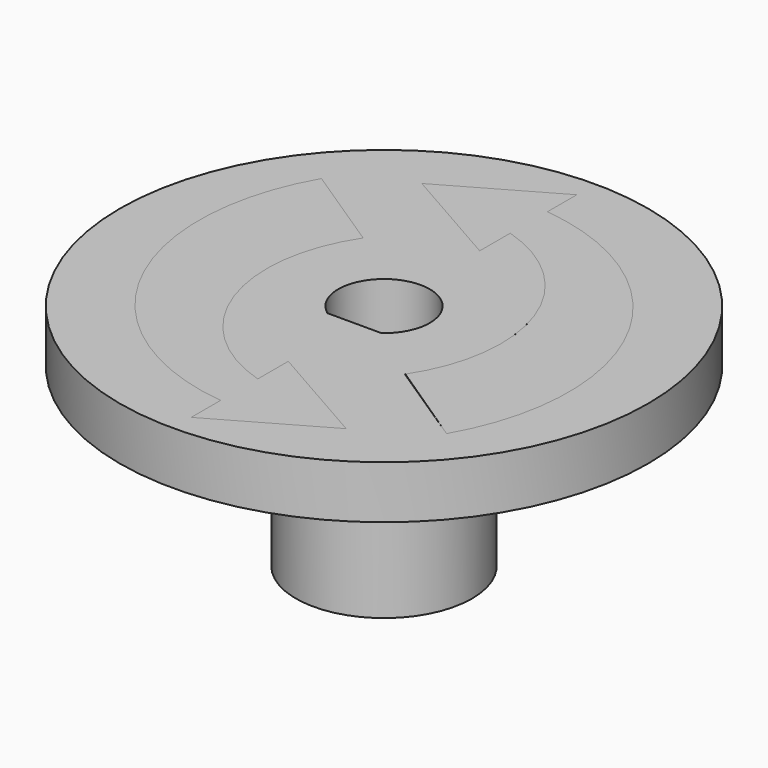
from build123d import *

# Parameters (mm, degrees)
PAD001_DEPTH       = 3
SKETCH_R           = 15
PAD_DEPTH          = 3
POCKET_DEPTH       = 5
POLARPATTERN_COUNT = 2
SKETCH002_R        = 5
PAD002_DEPTH       = 10
POCKET001_DEPTH    = 13.001


with BuildPart() as pad001:
    # Sketch007 → Pad001 (new body)
    with BuildSketch(Plane.XY.offset(3)):
        with BuildLine():
            Line((0, 8.962155), (0, 6.79326))
            Line((0, 6.79326), (-6.043384, 10.24135))
            Line((-6.043384, 10.24135), (0, 13.68944))
            Line((0, 13.68944), (-6e-06, 11.602829))
            ThreePointArc((9.818228, -7.831592), (10.160716, 4.53872), (-6e-06, 11.602829))
            Line((4.821207, -4.510569), (9.818228, -7.831592))
            ThreePointArc((4.821207, -4.510569), (5.787185, 3.434101), (0, 8.962155))
        make_face()
        with BuildLine():
            Line((-9.818227, 7.831595), (-4.808855, 4.529143))
            ThreePointArc((-4.808855, 4.529143), (-5.790936, -3.423597), (0, -8.962155))
            Line((0, -8.962155), (0, -6.79326))
            Line((0, -6.79326), (6.043384, -10.24135))
            Line((6.043384, -10.24135), (0, -13.68944))
            Line((0, -13.68944), (0, -11.602829))
            ThreePointArc((-9.818227, 7.831595), (-10.160719, -4.538716), (0, -11.602829))
        make_face()
    extrude(amount=-PAD001_DEPTH)


with BuildPart() as pocket001:
    # Sketch → Pad (new body)
    with BuildSketch(Plane.XY):
        Circle(SKETCH_R)
    extrude(amount=PAD_DEPTH)

    # Sketch001 → Pocket (cut)
    with BuildSketch(Plane.XY.offset(3)):
        with BuildLine():
            Line((-6.043384, 10.24135), (0, 6.79326))
            Line((0, 8.962155), (0, 6.79326))
            ThreePointArc((4.808855, -4.529143), (5.790936, 3.423597), (0, 8.962155))
            Line((4.808855, -4.529143), (9.818227, -7.831595))
            ThreePointArc((9.818227, -7.831595), (10.160719, 4.538716), (0, 11.602829))
            Line((0, 11.602829), (0, 13.68944))
            Line((0, 13.68944), (-6.043384, 10.24135))
        make_face()
    pocket = extrude(amount=-POCKET_DEPTH, mode=Mode.SUBTRACT)

    # PolarPattern: Pocket ×2 about axis
    polarpattern_axis = Axis((0, 0, 3), (0, 0, 1))
    for i in range(1, POLARPATTERN_COUNT):
        add(pocket.rotate(polarpattern_axis, i * 360 / POLARPATTERN_COUNT), mode=Mode.SUBTRACT)

    # Sketch002 → Pad002 (new body)
    with BuildSketch(Plane(origin=(0, 0, 0), x_dir=(1, 0, 0), z_dir=(0, 0, -1))):
        Circle(SKETCH002_R)
    extrude(amount=PAD002_DEPTH)

    # Sketch003 → Pocket001 (cut, through all)
    with BuildSketch(Plane(origin=(0, 0, -10), x_dir=(1, 0, 0), z_dir=(0, 0, -1))):
        with BuildLine():
            ThreePointArc((-1.533075, 2.099924), (0, -2.6), (1.533075, 2.099924))
            Line((-1.533075, 2.099924), (1.533075, 2.099924))
        make_face()
    extrude(amount=-POCKET001_DEPTH, mode=Mode.SUBTRACT)


solid = Compound([pad001.part, pocket001.part])
